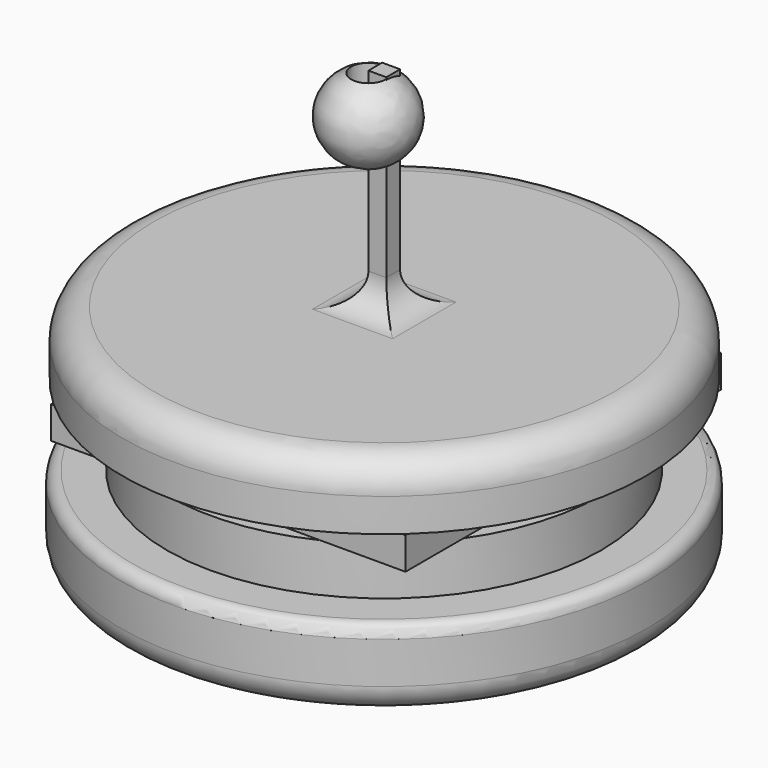
from build123d import *

# Parameters (mm, degrees)
F0_R      = 4.1669678751
F2_DEPTH  = 1.27
F3_R      = 3.429
F4_DEPTH  = 0.762
F5_W      = 5.5987872183
F5_H      = 6.2324469909
F6_DEPTH  = 0.508
F7_R      = 4.1275
F8_DEPTH  = 1.016
F10_W     = 0.2829879522
F10_H     = 0.2722851932
F11_DEPTH = 3.2766
F14_R     = 0.4905681959
F15_R     = 0.4292471714
F16_R     = 0.1839630735


with BuildPart() as f2:
    # F0 (on Top) → F2 (new body)
    with BuildSketch(Plane.XY):
        with Locations((-38.0157418549, 10.2490512654)):
            Circle(F0_R)
    extrude(amount=F2_DEPTH)

    # F3 (on face) → F4 (join)
    with BuildSketch(Plane.XY.offset(1.27)):
        with Locations((-38.0157418549, 10.2490512654)):
            Circle(F3_R)
    extrude(amount=F4_DEPTH)

    # F5 (on face) → F6 (join)
    with BuildSketch(Plane.XY.offset(2.032)):
        with Locations((-37.9977691919, 10.2676521055)):
            Rectangle(F5_W, F5_H)
    extrude(amount=F6_DEPTH)

    # F7 (on face) → F8 (join)
    with BuildSketch(Plane.XY.offset(2.54)):
        with Locations((-37.9977691919, 10.2307982743)):
            Circle(F7_R)
    extrude(amount=F8_DEPTH)

    # F10 (on face) → F11 (join)
    with BuildSketch(Plane.XY.offset(3.556)):
        with Locations((-38.0135253072, 10.2514149621)):
            Rectangle(F10_W, F10_H)
    extrude(amount=F11_DEPTH)

    # F12 (on face) → F13 (revolve)
    with BuildSketch(Plane(origin=(-38.1550192833, 0, 0), x_dir=(0, -1, 0), z_dir=(-1, 0, 0))):
        with BuildLine():
            Line((-10.3875575587, 5.6081162018), (-10.3875575587, 6.7985399348))
            ThreePointArc((-10.3875575587, 6.7985399348), (-10.8013159849, 6.2033280683), (-10.3875575587, 5.6081162018))
        make_face()
    revolve(axis=Axis((-38.1550192833, 10.1152723655, 5.1943), (0, 0, -1)))

    # F14
    f14_edges = [f2.edges().sort_by_distance(p)[0] for p in [
        (-42.125269, 10.230798, 3.556),
        (-37.872031, 10.251415, 3.556),
        (-38.013525, 10.387558, 3.556),
        (-38.155019, 10.251415, 3.556),
        (-38.013525, 10.115272, 3.556),
    ]]
    fillet(f14_edges, radius=F14_R)

    # F15
    f15_edges = [f2.edges().sort_by_distance(p)[0] for p in [
        (-42.18271, 10.249051, 0),
    ]]
    fillet(f15_edges, radius=F15_R)

    # F16
    f16_edges = [f2.edges().sort_by_distance(p)[0] for p in [
        (-42.18271, 10.249051, 1.27),
    ]]
    fillet(f16_edges, radius=F16_R)


solid = f2.part
